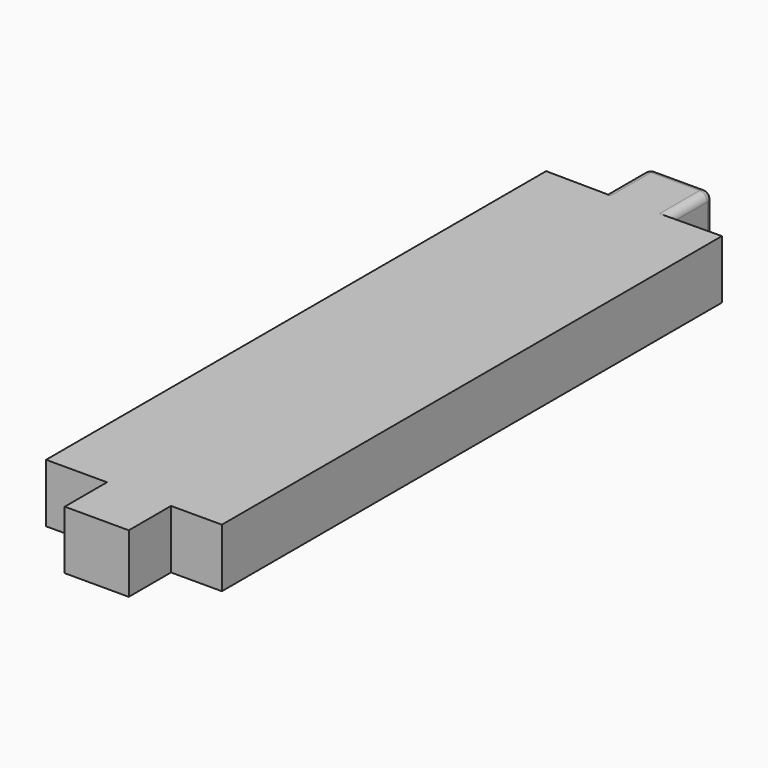
from build123d import *

# Parameters (mm, degrees)
F1_DEPTH = 76.2
F2_R     = 10


with BuildPart() as f1:
    # F0 (on Top) → F1 (new body)
    with BuildSketch(Plane.XY):
        Polygon((75.046457, 811.90747), (0, 812.8), (0, 0), (79.210013, 0), (79.210013, -68.688758), (162.481502, -68.688758), (162.481502, 0), (228.6, 0), (228.6, 812.8), (158.317953, 811.90747), (158.317953, 886.851847), (75.046457, 886.851847), align=None)
    extrude(amount=F1_DEPTH)

    # F2
    f2_edges = [f1.edges().sort_by_distance(p)[0] for p in [
        (75.046457, 886.851847, 38.1),
        (116.682205, 886.851847, 76.2),
        (75.046457, 849.379659, 76.2),
        (158.317953, 849.379659, 76.2),
        (158.317953, 886.851847, 38.1),
        (116.682205, 886.851847, 0),
        (75.046457, 849.379659, 0),
        (158.317953, 849.379659, 0),
    ]]
    fillet(f2_edges, radius=F2_R)


solid = f1.part
